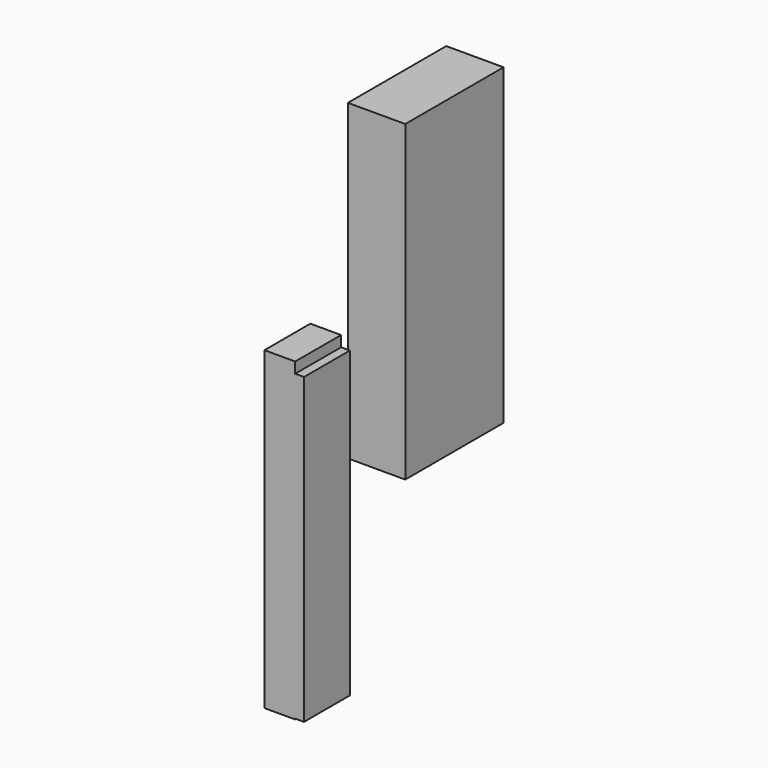
from build123d import *

# Parameters (mm, degrees)
F0_W     = 54.413997
F0_H     = 138.625599
F1_DEPTH = 25.4
F2_W     = 12.544077
F2_H     = 134.466797
F3_DEPTH = 25.4
F4_W     = 13.618799
F4_H     = 139.549188
F5_DEPTH = 25.4


with BuildPart() as f1:
    # F0 (on Right) → F1 (new body)
    with BuildSketch(Plane.YZ):
        with Locations((111.480463, 38.968597)):
            Rectangle(F0_W, F0_H)
    extrude(amount=-F1_DEPTH)


with BuildPart() as f3:
    # F2 (on Front) → F3 (new body)
    with BuildSketch(Plane.XZ):
        with Locations((36.626769, 0.956074)):
            Rectangle(F2_W, F2_H)
    extrude(amount=F3_DEPTH)

    # F4 (on Front) → F5 (join)
    with BuildSketch(Plane.XZ):
        with Locations((32.193213, 3.186252)):
            Rectangle(F4_W, F4_H)
    extrude(amount=F5_DEPTH)


solid = Compound([f1.part, f3.part])
